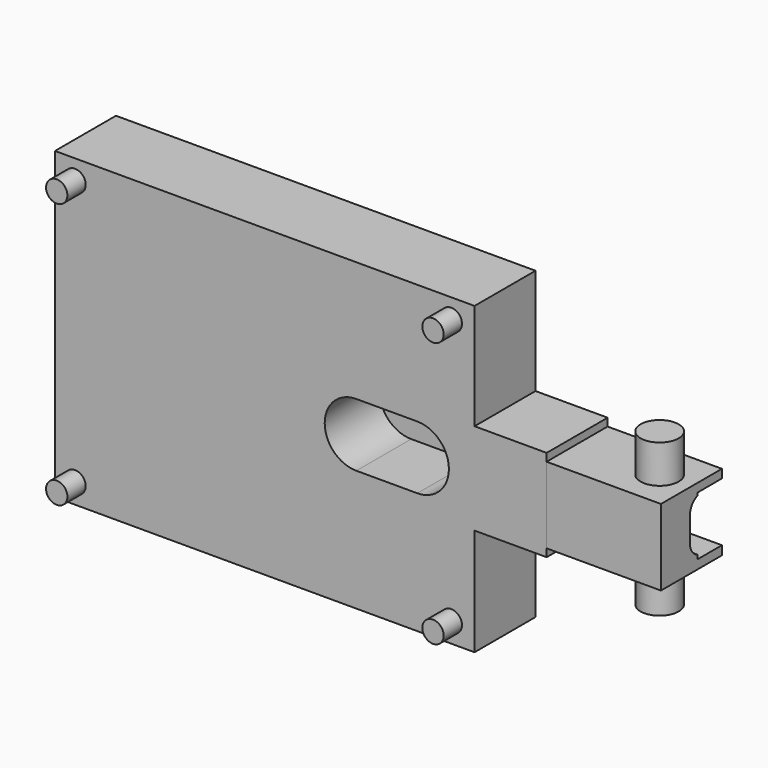
from build123d import *

# Parameters (mm, degrees)
SKETCH032_W       = 64.5
SKETCH032_H       = 40
PAD013_DEPTH      = 10
SKETCH034_R       = 1.4
PAD014_DEPTH      = 3
SKETCH035_R       = 4
HOLE003_DEPTH     = 18
POCKET015_DEPTH   = 9
POCKET016_DEPTH   = 10.001
SKETCH038_W       = 10
SKETCH038_H       = 10
PAD015_DEPTH      = 15
SKETCH039_R       = 2.5
PAD016_DEPTH      = 5
PAD016_DEPTH_BACK = 15
POCKET017_DEPTH   = 17
POCKET019_DEPTH   = 4


with BuildPart() as part:
    # Sketch032 → Pad013 (new body)
    with BuildSketch(Plane.XZ):
        with Locations((-50.07, -27.33)):
            Rectangle(SKETCH032_W, SKETCH032_H)
    extrude(amount=PAD013_DEPTH)

    # Sketch034 (on Face6 of Pad013) → Pad014 (join)
    with BuildSketch(Plane.XZ.offset(10)):
        with Locations((-79.69, -44.73)):
            Circle(SKETCH034_R)
        with Locations((-79.69, -9.93)):
            Circle(SKETCH034_R)
        with Locations((-30.33, -44.73)):
            Circle(SKETCH034_R)
        with Locations((-30.33, -9.93)):
            Circle(SKETCH034_R)
    extrude(amount=PAD014_DEPTH)

    # Sketch035 (on Face2 of Pad014) → Hole003 (cut)
    with BuildSketch(Plane(origin=(-17.82, 0, 0), x_dir=(0, 0, 1), z_dir=(1, 0, 0))):
        with Locations((-27.33, 5)):
            Circle(SKETCH035_R)
    extrude(amount=-HOLE003_DEPTH, mode=Mode.SUBTRACT)

    # Sketch036 (on Face5 of Hole003) → Pocket015 (cut)
    with BuildSketch(Plane.XZ.offset(10)):
        with BuildLine():
            ThreePointArc((-42.7907317107, -23.1184468896), (-46.935543609, -27.2632587879), (-42.7907317107, -31.4080706862))
            Line((-42.7907317107, -31.4080706862), (-34.7907317107, -31.4080706862))
            ThreePointArc((-34.7907317107, -31.4080706862), (-30.6459198124, -27.2632587879), (-34.7907317107, -23.1184468896))
            Line((-42.7907317107, -23.1184468896), (-34.7907317107, -23.1184468896))
        make_face()
    extrude(amount=-POCKET015_DEPTH, mode=Mode.SUBTRACT)

    # Sketch037 (on Face5 of Pocket015) → Pocket016 (cut, through all)
    with BuildSketch(Plane.XZ.offset(10)):
        Polygon((-8.75606, -47.792807), (-8.75606, -6.792807), (-27.2815885194, -6.792807), (-27.2815885194, -21.225657), (-14.1415885194, -21.225657), (-14.1415885194, -33.274418), (-27.2815885194, -33.274418), (-27.2815885194, -47.792807), align=None)
    extrude(amount=-POCKET016_DEPTH, mode=Mode.SUBTRACT)

    # Sketch038 (on Face7 of Pocket016) → Pad015 (join)
    with BuildSketch(Plane(origin=(-17.82, 0, 0), x_dir=(0, 0, 1), z_dir=(1, 0, 0))):
        with Locations((-27.24382, 5.01)):
            Rectangle(SKETCH038_W, SKETCH038_H)
    extrude(amount=PAD015_DEPTH)

    # Sketch039 (on Face20 of Pad015) → Pad016 (join, two sides)
    with BuildSketch(Plane(origin=(0, 0, -22.24382), x_dir=(-1, 0, 0), z_dir=(0, 0, 1))) as pad016_sk:
        with Locations((7, 5)):
            Circle(SKETCH039_R)
    extrude(amount=PAD016_DEPTH)
    extrude(pad016_sk.sketch, amount=-PAD016_DEPTH_BACK)

    # Sketch040 (on Face31 of Pad016) → Pocket017 (cut)
    with BuildSketch(Plane(origin=(-2.82, 0, 0), x_dir=(0, 0, 1), z_dir=(1, 0, 0))):
        with BuildLine():
            ThreePointArc((-28.743006, 5.2516311207), (-30.6490431207, 3.345594), (-28.743006, 1.4395568793))
            Line((-28.743006, 1.4395568793), (-25.494635, 1.4395568793))
            ThreePointArc((-25.494635, 1.4395568793), (-23.5885978793, 3.345594), (-25.494635, 5.2516311207))
            Line((-28.743006, 5.2516311207), (-25.494635, 5.2516311207))
        make_face()
    extrude(amount=-POCKET017_DEPTH, mode=Mode.SUBTRACT)

    # Sketch045 (on Face21 of Pocket017) → Pocket019 (cut)
    with BuildSketch(Plane(origin=(0, -0.01, 0), x_dir=(1, 0, 0), z_dir=(0, 1, 0))):
        with BuildLine():
            ThreePointArc((-10.990606, 31.0720355), (-14.8442005, 27.218441), (-10.990606, 23.3648465))
            Line((-10.990606, 23.3648465), (5.086273, 23.3648465))
            ThreePointArc((5.086273, 23.3648465), (8.9398675, 27.218441), (5.086273, 31.0720355))
            Line((-10.990606, 31.0720355), (5.086273, 31.0720355))
        make_face()
    extrude(amount=-POCKET019_DEPTH, mode=Mode.SUBTRACT)


with BuildPart() as part_1:
    # Body006 placement: moved
    add(part.part.moved(Location((0, -4, -21))))


solid = part_1.part
